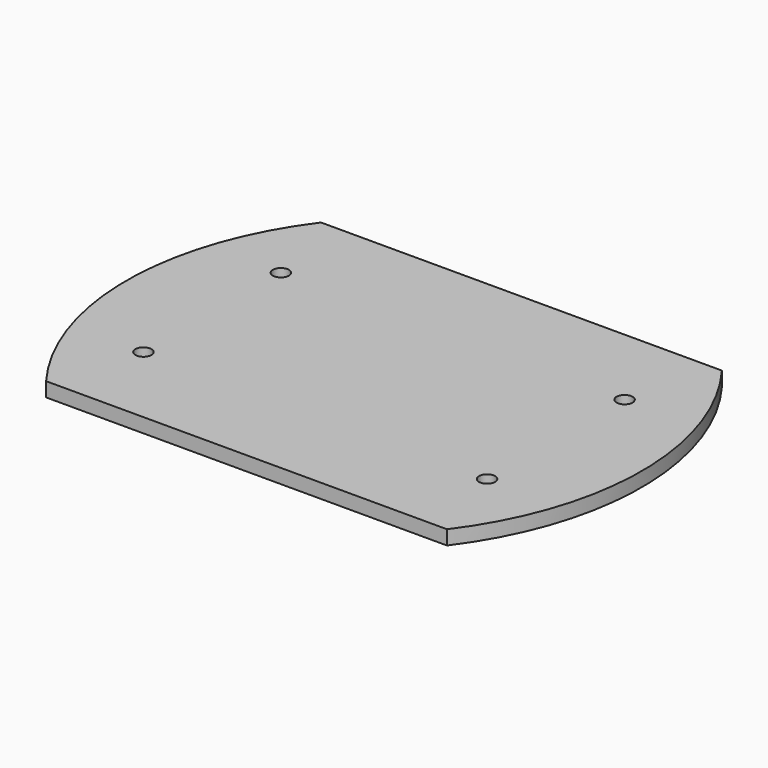
from build123d import *

# Parameters (mm, degrees)
F0_R     = 14
F0_R_2   = 250
F1_DEPTH = 25


with BuildPart() as f1:
    # F0 (on Top) → F1 (new body)
    with BuildSketch(Plane.XY):
        with BuildLine():
            Line((350, 300), (-350, 300))
            ThreePointArc((-350, 300), (-450, 0), (-350, -300))
            Line((-350, -300), (350, -300))
            ThreePointArc((350, -300), (450, 0), (350, 300))
        make_face()
        with Locations((-300, -150)):
            Circle(F0_R, mode=Mode.SUBTRACT)
        with Locations((300, -150)):
            Circle(F0_R, mode=Mode.SUBTRACT)
        with Locations((-300, 150)):
            Circle(F0_R, mode=Mode.SUBTRACT)
        Circle(F0_R_2, mode=Mode.SUBTRACT)
        with Locations((300, 150)):
            Circle(F0_R, mode=Mode.SUBTRACT)
        Circle(F0_R_2)
    extrude(amount=-F1_DEPTH)


solid = f1.part
